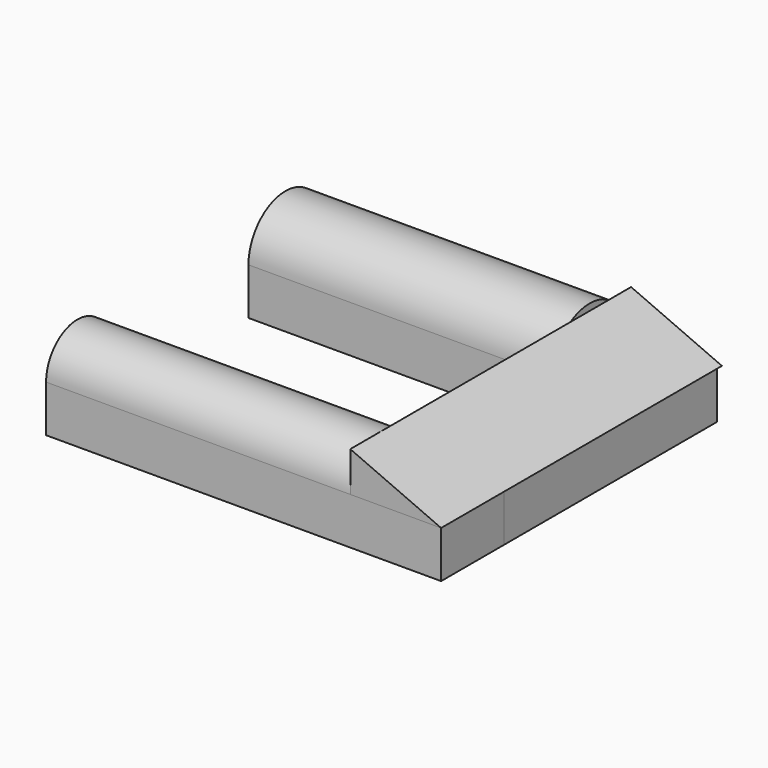
from build123d import *

# Parameters (mm, degrees)
F0_W     = 164.572999
F0_H     = 50.131164
F1_DEPTH = 25.4
F2_W     = 50.053165
F2_H     = 144.737036
F3_DEPTH = 25.4
F5_DEPTH = 165.1
F7_DEPTH = 190.5
F9_DEPTH = 165.1


with BuildPart() as f1:
    # F0 (on Top) → F1 (new body)
    with BuildSketch(Plane.XY):
        with Locations((-47.217171, 0)):
            Rectangle(F0_W, F0_H)
    extrude(amount=F1_DEPTH)


with BuildPart() as f3:
    # F2 (on Top) → F3 (new body)
    with BuildSketch(Plane.XY):
        with Locations((60.10697, -47.759071)):
            Rectangle(F2_W, F2_H)
        Polygon((85.133553, -120.127589), (35.080388, -120.127589), (-129.260778, -120.127589), (-129.260778, -162.672564), (85.133553, -162.672564), align=None)
        with Locations((60.10697, -47.759071)):
            Rectangle(F2_W, F2_H)
        Polygon((85.133553, -120.127589), (35.080388, -120.127589), (-129.260778, -120.127589), (-129.260778, -162.672564), (85.133553, -162.672564), align=None)
    extrude(amount=F3_DEPTH)

    # F4 (on face) → F5 (join)
    with BuildSketch(Plane(origin=(-129.260778, 0, 0), x_dir=(0, -1, 0), z_dir=(-1, 0, 0))):
        with BuildLine():
            Line((120.127589, 25.4), (162.672564, 25.4))
            ThreePointArc((162.672564, 25.4), (141.400076, 46.672488), (120.127589, 25.4))
        make_face()
    extrude(amount=-F5_DEPTH)


with BuildPart() as f7:
    # F6 (on face) → F7 (new body)
    with BuildSketch(Plane.XZ.offset(162.672564)):
        Polygon((35.839222, 47.058806), (35.839222, 25.4), (85.133553, 25.4), align=None)
    extrude(amount=-F7_DEPTH)


with BuildPart() as f9:
    # F8 (on face) → F9 (new body)
    with BuildSketch(Plane(origin=(-129.503671, 0, 0), x_dir=(0, -1, 0), z_dir=(-1, 0, 0))):
        with BuildLine():
            Line((-25.065582, 25.4), (25.065582, 25.4))
            ThreePointArc((25.065582, 25.4), (0, 50.465582), (-25.065582, 25.4))
        make_face()
    extrude(amount=-F9_DEPTH)


solid = Compound([f1.part, f3.part, f7.part, f9.part])
